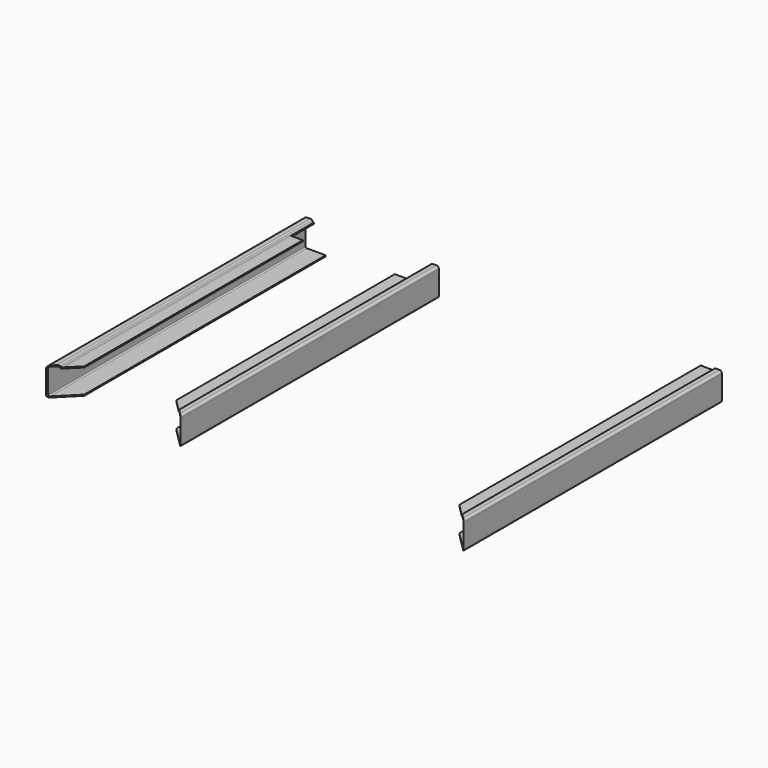
from build123d import *

# Parameters (mm, degrees)
F1_DEPTH  = 1141
F4_W      = 350
F4_H      = 150
F5_DEPTH  = 150
F11_W     = 41.409
F11_H     = 101
F12_DEPTH = 4


with BuildPart() as f1:
    # F0 (on Front) → F1 (new body)
    with BuildSketch(Plane.XZ):
        with BuildLine():
            ThreePointArc((-37.5, -42), (-35.1568542495, -47.6568542495), (-29.5, -50))
            Line((-29.5, -50), (37.5, -50))
            Line((37.5, -50), (37.5, -46))
            Line((37.5, -46), (-29.5, -46))
            ThreePointArc((-29.5, -46), (-32.3284271247, -44.8284271247), (-33.5, -42))
            Line((-33.5, -42), (-33.5, 42))
            ThreePointArc((-33.5, 42), (-32.3284271247, 44.8284271247), (-29.5, 46))
            Line((-29.5, 46), (-16.2304612652, 46))
            ThreePointArc((-16.2304612652, 46), (-14.5399882183, 45.6252311481), (-13.1662834928, 44.5711504387))
            Line((-13.1662834928, 44.5711504387), (-10.0503278629, 40.8576991225))
            ThreePointArc((-10.0503278629, 40.8576991225), (-7.3029184119, 38.7495377037), (-3.921972318, 38))
            Line((-3.921972318, 38), (37.5, 38))
            Line((37.5, 38), (37.5, 42))
            Line((37.5, 42), (-3.921972318, 42))
            ThreePointArc((-3.921972318, 42), (-5.6124453649, 42.3747688519), (-6.9861500904, 43.4288495613))
            Line((-6.9861500904, 43.4288495613), (-10.1021057203, 47.1423008775))
            ThreePointArc((-10.1021057203, 47.1423008775), (-12.8495151713, 49.2504622963), (-16.2304612652, 50))
            Line((-16.2304612652, 50), (-29.5, 50))
            ThreePointArc((-29.5, 50), (-35.1568542495, 47.6568542495), (-37.5, 42))
            Line((-37.5, 42), (-37.5, -42))
        make_face()
    extrude(amount=-F1_DEPTH)

    # F4 (on face) → F5 (cut)
    with BuildSketch(Plane(origin=(-18.75, 18.75, 0), x_dir=(0.7071067812, 0.7071067812, 0), z_dir=(0.7071067812, -0.7071067812, 0))):
        Rectangle(F4_W, F4_H)
    extrude(amount=F5_DEPTH, mode=Mode.SUBTRACT)


with BuildPart() as f7_1:
    # F7: instance of F1
    add(f1.part.mirror(Plane.YZ.offset(200)))

    # F8: F1 across plane
    add(f1.part.mirror(Plane.YZ.offset(200)))

    # F13: F1 across plane


with BuildPart() as f10_1:
    # F10: instance of F1
    add(f1.part.mirror(Plane.YZ.offset(700)))


with BuildPart() as f1_1:
    add(f1.part)

    # F11 (on face) → F12 (cut)
    with BuildSketch(Plane.XY.offset(42)):
        with Locations((16.7955, 1090.5)):
            Rectangle(F11_W, F11_H)
    extrude(amount=-F12_DEPTH, mode=Mode.SUBTRACT)


with BuildPart() as f7_1_1:
    add(f7_1.part)
    add(f1_1.part.mirror(Plane.YZ.offset(200)), mode=Mode.INTERSECT)


solid = Compound([f10_1.part, f1_1.part, f7_1_1.part])
